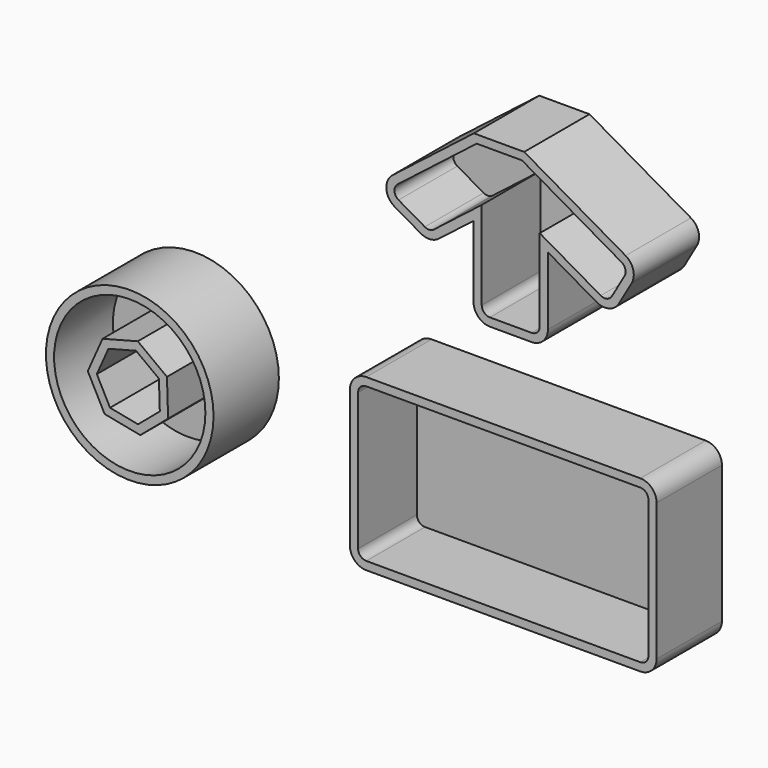
from build123d import *

# Parameters (mm, degrees)
F0_W     = 95.3992977738
F0_H     = 52.9018118978
F1_DEPTH = 25.4
F0_R     = 26.0717116196
F2_R     = 5.08
F2_2_R   = 5.08
F3_T     = -2.54
F3_2_T   = -2.54
F3_3_T   = -2.54


with BuildPart() as f1:
    # F0 (on Front) → F1 (new body)
    with BuildSketch(Plane.XZ):
        with Locations((-6.5099671483, -8.9486204088)):
            Rectangle(F0_W, F0_H)
    extrude(amount=F1_DEPTH)

    # F2
    f2_edges = [f1.edges().sort_by_distance(p)[0] for p in [
        (41.189682, -12.7, 17.502286),
        (-54.209616, -12.7, 17.502286),
        (41.189682, -12.7, -35.399526),
        (-54.209616, -12.7, -35.399526),
    ]]
    fillet(f2_edges, radius=F2_R)

    # F3
    f3_openings = [f1.faces().sort_by_distance(p)[0] for p in [
        (-6.509967, -25.4, -8.94862),
    ]]
    offset(amount=F3_T, openings=f3_openings)


with BuildPart() as f1b:
    # F0 (on Front) → F1, piece 2 (new body)
    with BuildSketch(Plane.XZ):
        Polygon((-15.7450778402, 71.1268408825), (-15.7450778402, 43.8002683285), (7.3828132831, 43.8002683285), (7.3828132831, 70.0535550776), (26.9487652202, 58.7970262781), (35.9517936882, 74.4459732518), (0, 95.1294749975), (-15.639244779, 95.1294749975), (-46.8923002481, 70.8196386695), (-29.2148078451, 60.6495634807), align=None)
    extrude(amount=F1_DEPTH)

    # F2#2
    f2_2_edges = [f1b.edges().sort_by_distance(p)[0] for p in [
        (-15.745078, -12.7, 43.800268),
        (7.382813, -12.7, 43.800268),
        (-29.214808, -12.7, 60.649563),
        (-46.8923, -12.7, 70.819639),
        (26.948765, -12.7, 58.797026),
        (35.951794, -12.7, 74.445973),
    ]]
    fillet(f2_2_edges, radius=F2_2_R)

    # F3#2
    f3_2_openings = [f1b.faces().sort_by_distance(p)[0] for p in [
        (-4.405798, -25.4, 71.992638),
    ]]
    offset(amount=F3_2_T, openings=f3_2_openings, kind=Kind.INTERSECTION)


with BuildPart() as f1c:
    # F0 (on Front) → F1, piece 3 (new body)
    with BuildSketch(Plane.XZ):
        with Locations((-122.6953491569, -8.6302654818)):
            Circle(F0_R)
        Polygon((-113.6160777227, -3.9024062982), (-113.338126855, -12.7809537413), (-120.1063552331, -18.5339482663), (-128.8241488417, -16.8292676563), (-132.9268312828, -8.9505711797), (-129.3249989989, -0.8306779795), (-120.7309051638, 1.4159667489), align=None, mode=Mode.SUBTRACT)
    extrude(amount=F1_DEPTH)

    # F3#3
    f3_3_openings = [f1c.faces().sort_by_distance(p)[0] for p in [
        (-148.029641, -25.4, -8.630265),
    ]]
    offset(amount=F3_3_T, openings=f3_3_openings, kind=Kind.INTERSECTION)


solid = Compound([f1.part, f1b.part, f1c.part])
